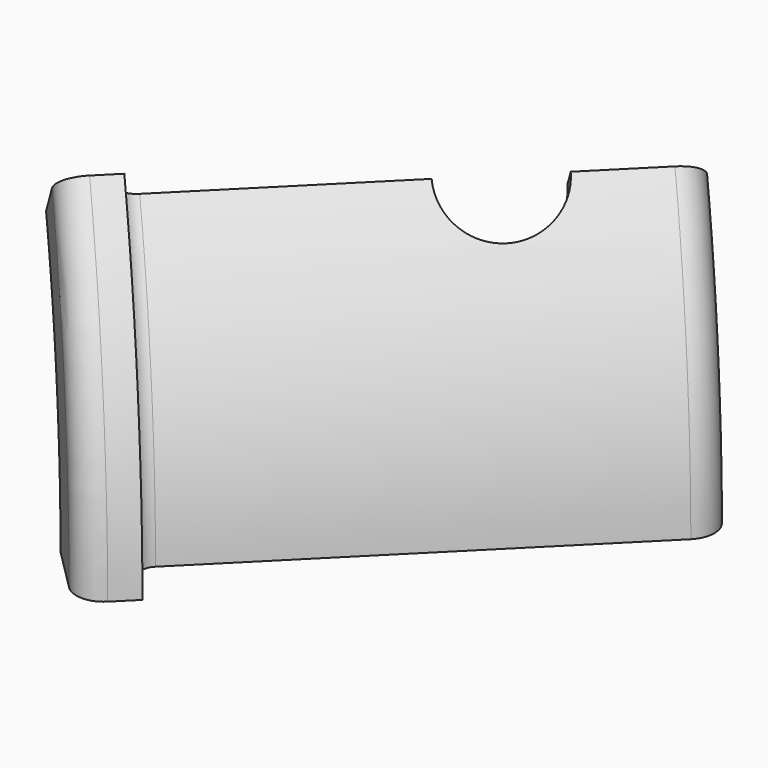
from build123d import *

# Parameters (mm, degrees)
BOX007_W               = 100
BOX007_H               = 100
BOX007_DEPTH           = 100
BOX007_PLACEMENT_ANGLE = 45
BOX006_W               = 100
BOX006_H               = 200
BOX006_DEPTH           = 100
BOX006_PLACEMENT_ANGLE = 45
BOX005_W               = 100
BOX005_H               = 100
BOX005_DEPTH           = 100
BOX004_W               = 20
BOX004_H               = 20
BOX004_DEPTH           = 80
BOX003_W               = 20
BOX003_H               = 20
BOX003_DEPTH           = 80
BOX002_W               = 10
BOX002_H               = 25
BOX002_DEPTH           = 35
BOX002_PITCH_ANGLE     = -15
BOX001_W               = 10
BOX001_H               = 25
BOX001_DEPTH           = 35
BOX001_PITCH_ANGLE     = 15
BOX_W                  = 20
BOX_H                  = 25
BOX_DEPTH              = 35
CYLINDER005_R          = 10
CYLINDER005_DEPTH      = 180
CYLINDER005_ROLL_ANGLE = 90
CYLINDER004_R          = 54
CYLINDER004_DEPTH      = 100
CYLINDER003_R          = 59
CYLINDER003_DEPTH      = 10
CYLINDER002_R          = 64
CYLINDER002_DEPTH      = 85
CYLINDER001_R          = 70
CYLINDER001_DEPTH      = 90
CYLINDER_R             = 80
CYLINDER_DEPTH         = 10
FILLET_R               = 3
FILLET001_R            = 5
FILLET002_R            = 5
CUT009_ROLL_ANGLE      = -90
CUT009_PITCH_ANGLE     = 45
CUT009_PLACEMENT_ANGLE = -45


with BuildPart() as cube004:
    # Box007 → Box007 (new body)
    with BuildSketch(Plane.XY):
        with Locations((50, 50)):
            Rectangle(BOX007_W, BOX007_H)
    extrude(amount=BOX007_DEPTH)


with BuildPart() as cube004_1:
    # Box007 placement: moved
    add(cube004.part.rotate(Axis((0, 0, 0), (0, 0, 1)), BOX007_PLACEMENT_ANGLE))


with BuildPart() as cube003:
    # Box006 → Box006 (new body)
    with BuildSketch(Plane.XY):
        with Locations((50, 100)):
            Rectangle(BOX006_W, BOX006_H)
    extrude(amount=BOX006_DEPTH)


with BuildPart() as cube003_1:
    # Box006 placement: moved
    add(cube003.part.moved(Location((71, -71, 0))).rotate(Axis((71, -71, 0), (0, 0, 1)), BOX006_PLACEMENT_ANGLE))


with BuildPart() as cube002:
    # Box005 → Box005 (new body)
    with BuildSketch(Plane(origin=(0, 0, 0), x_dir=(-1, 0, 0), z_dir=(0, 0, 1))):
        with Locations((50, 50)):
            Rectangle(BOX005_W, BOX005_H)
    extrude(amount=BOX005_DEPTH)


with BuildPart() as tab_cut_l:
    # Box004 → Box004 (new body)
    with BuildSketch(Plane(origin=(-83, -10, 20), x_dir=(1, 0, 0), z_dir=(0, 0, 1))):
        with Locations((10, 10)):
            Rectangle(BOX004_W, BOX004_H)
    extrude(amount=BOX004_DEPTH)


with BuildPart() as tab_cut_r:
    # Box003 → Box003 (new body)
    with BuildSketch(Plane(origin=(63, -10, 20), x_dir=(1, 0, 0), z_dir=(0, 0, 1))):
        with Locations((10, 10)):
            Rectangle(BOX003_W, BOX003_H)
    extrude(amount=BOX003_DEPTH)


with BuildPart() as cube001:
    # Box002 → Box002 (new body)
    with BuildSketch(Plane.XY):
        with Locations((5, 12.5)):
            Rectangle(BOX002_W, BOX002_H)
    extrude(amount=BOX002_DEPTH)


with BuildPart() as cube001_1:
    # Box002 pitch: moved
    add(cube001.part.rotate(Axis((0, 0, 0), (0, 1, 0)), BOX002_PITCH_ANGLE))


with BuildPart() as cube001_2:
    # Box002 placement: moved
    add(cube001_1.part.moved(Location((-9.95, 48, 64))))


with BuildPart() as cube:
    # Box001 → Box001 (new body)
    with BuildSketch(Plane.XY):
        with Locations((5, 12.5)):
            Rectangle(BOX001_W, BOX001_H)
    extrude(amount=BOX001_DEPTH)


with BuildPart() as cube_1:
    # Box001 pitch: moved
    add(cube.part.rotate(Axis((0, 0, 0), (0, 1, 0)), BOX001_PITCH_ANGLE))


with BuildPart() as cube_2:
    # Box001 placement: moved
    add(cube_1.part.moved(Location((0, 48, 65))))


with BuildPart() as bearing_slot:
    # Box → Box (new body)
    with BuildSketch(Plane(origin=(-10, 48, 65), x_dir=(1, 0, 0), z_dir=(0, 0, 1))):
        with Locations((10, 12.5)):
            Rectangle(BOX_W, BOX_H)
    extrude(amount=BOX_DEPTH)


with BuildPart() as bearing_holes:
    # Cylinder005 → Cylinder005 (new body)
    with BuildSketch(Plane.XY):
        Circle(CYLINDER005_R)
    extrude(amount=CYLINDER005_DEPTH)


with BuildPart() as bearing_holes_1:
    # Cylinder005 roll: moved
    add(bearing_holes.part.rotate(Axis((0, 0, 0), (1, 0, 0)), CYLINDER005_ROLL_ANGLE))


with BuildPart() as bearing_holes_2:
    # Cylinder005 placement: moved
    add(bearing_holes_1.part.moved(Location((0, 90, 65))))


with BuildPart() as through_hole:
    # Cylinder004 → Cylinder004 (new body)
    with BuildSketch(Plane.XY):
        Circle(CYLINDER004_R)
    extrude(amount=CYLINDER004_DEPTH)


with BuildPart() as inner_lip:
    # Cylinder003 → Cylinder003 (new body)
    with BuildSketch(Plane.XY.offset(80)):
        Circle(CYLINDER003_R)
    extrude(amount=CYLINDER003_DEPTH)


with BuildPart() as inner_hole:
    # Cylinder002 → Cylinder002 (new body)
    with BuildSketch(Plane.XY):
        Circle(CYLINDER002_R)
    extrude(amount=CYLINDER002_DEPTH)


with BuildPart() as body_cylinder:
    # Cylinder001 → Cylinder001 (new body)
    with BuildSketch(Plane.XY.offset(5)):
        Circle(CYLINDER001_R)
    extrude(amount=CYLINDER001_DEPTH)


with BuildPart() as cut010:
    # Cylinder → Cylinder (new body)
    with BuildSketch(Plane.XY):
        Circle(CYLINDER_R)
    extrude(amount=CYLINDER_DEPTH)

    # Fusion: union Body_Cylinder
    add(body_cylinder.part)

    # Cut: cut Inner_Hole
    add(inner_hole.part, mode=Mode.SUBTRACT)

    # Fusion001: union Inner_Lip
    add(inner_lip.part)

    # Cut001: cut Through_Hole
    add(through_hole.part, mode=Mode.SUBTRACT)

    # Fillet
    fillet_edges = [cut010.edges().sort_by_distance(p)[0] for p in [
        (-70, 0, 10),
    ]]
    fillet(fillet_edges, radius=FILLET_R)

    # Fillet001
    fillet001_edges = [cut010.edges().sort_by_distance(p)[0] for p in [
        (-80, 0, 0),
    ]]
    fillet(fillet001_edges, radius=FILLET001_R)

    # Fillet002
    fillet002_edges = [cut010.edges().sort_by_distance(p)[0] for p in [
        (-70, 0, 95),
    ]]
    fillet(fillet002_edges, radius=FILLET002_R)

    # Cut002: cut Bearing_Holes
    add(bearing_holes_2.part, mode=Mode.SUBTRACT)

    # Cut003: cut Bearing_Slot
    add(bearing_slot.part, mode=Mode.SUBTRACT)

    # Cut004: cut Cube
    add(cube_2.part, mode=Mode.SUBTRACT)

    # Cut005: cut Cube001
    add(cube001_2.part, mode=Mode.SUBTRACT)

    # Cut006: cut Tab_Cut_R
    add(tab_cut_r.part, mode=Mode.SUBTRACT)

    # Cut007: cut Tab_Cut_L
    add(tab_cut_l.part, mode=Mode.SUBTRACT)

    # Cut008: cut Cube002
    add(cube002.part, mode=Mode.SUBTRACT)

    # Cut009: cut Cube003
    add(cube003_1.part, mode=Mode.SUBTRACT)


with BuildPart() as cut010_1:
    # Cut009 roll: moved
    add(cut010.part.rotate(Axis((0, 0, 0), (1, 0, 0)), CUT009_ROLL_ANGLE))


with BuildPart() as cut010_2:
    # Cut009 pitch: moved
    add(cut010_1.part.rotate(Axis((0, 0, 0), (0, 1, 0)), CUT009_PITCH_ANGLE))


with BuildPart() as cut010_3:
    # Cut009 placement: moved
    add(cut010_2.part.rotate(Axis((0, 0, 0), (0, 0, 1)), CUT009_PLACEMENT_ANGLE))

    # Cut010: cut Cube004
    add(cube004_1.part, mode=Mode.SUBTRACT)


solid = cut010_3.part
